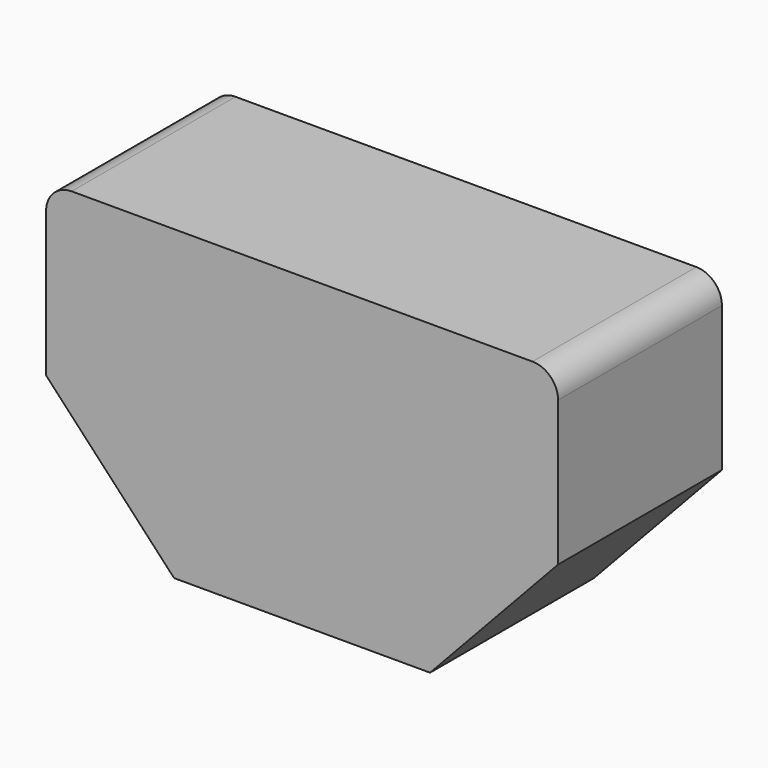
from build123d import *

# Parameters (mm, degrees)
F1_DEPTH = 50.8


with BuildPart() as f1:
    # F0 (on Front) → F1 (new body)
    with BuildSketch(Plane.XZ):
        with BuildLine():
            Line((-31.75, 0), (0, 0))
            Line((0, 0), (31.75, 0))
            Line((31.75, 0), (63.5, 33.943638))
            Line((63.5, 33.943638), (63.5, 69.85))
            ThreePointArc((63.5, 69.85), (61.640128, 74.340128), (57.15, 76.2))
            Line((57.15, 76.2), (0, 76.2))
            Line((0, 76.2), (-57.15, 76.2))
            ThreePointArc((-57.15, 76.2), (-61.640128, 74.340128), (-63.5, 69.85))
            Line((-63.5, 69.85), (-63.5, 33.943638))
            Line((-63.5, 33.943638), (-31.75, 0))
        make_face()
    extrude(amount=F1_DEPTH)


solid = f1.part
